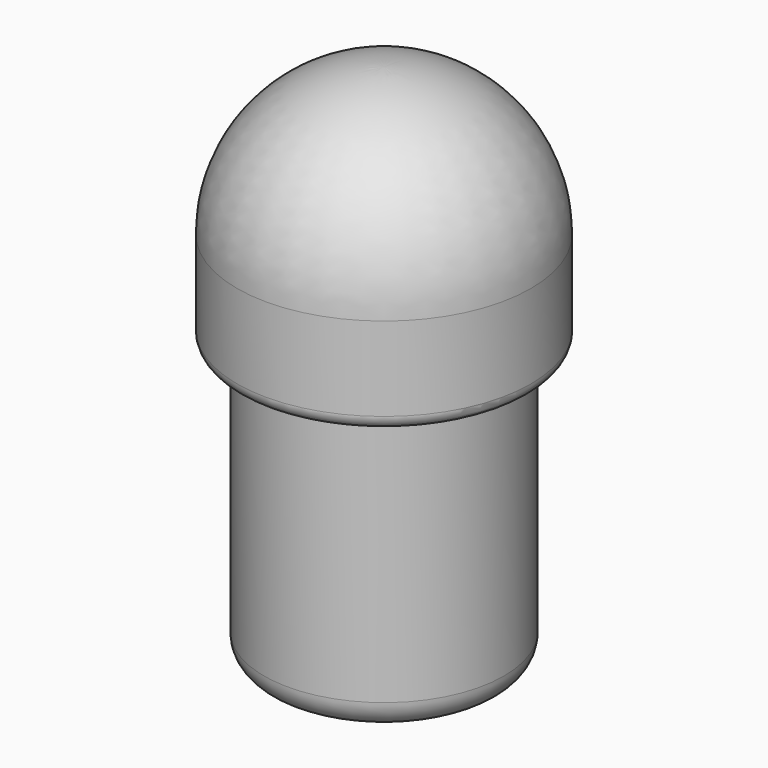
from build123d import *

# Parameters (mm, degrees)
SKETCH_R     = 17.15
PAD_DEPTH    = 40
SKETCH001_R  = 21
PAD001_DEPTH = 14
FILLET_R     = 4
FILLET001_R  = 2


with BuildPart() as part:
    # Sketch → Pad (new body)
    with BuildSketch(Plane.XY):
        Circle(SKETCH_R)
    extrude(amount=PAD_DEPTH)

    # Sketch001 (on Face3 of Pad) → Pad001 (join)
    with BuildSketch(Plane.XY.offset(40)):
        Circle(SKETCH001_R)
    extrude(amount=PAD001_DEPTH)

    # Sketch002 → Revolution (revolve)
    with BuildSketch(Plane.YZ):
        with BuildLine():
            ThreePointArc((21, 54), (14.849242, 68.849242), (0, 75))
            Line((0, 75), (0, 54))
            Line((0, 54), (21, 54))
        make_face()
    revolve(axis=Axis((0, 0, 0), (0, 0, 1)))

    # Fillet
    fillet_edges = [part.edges().sort_by_distance(p)[0] for p in [
        (-17.15, 0, 0),
    ]]
    fillet(fillet_edges, radius=FILLET_R)

    # Fillet001
    fillet001_edges = [part.edges().sort_by_distance(p)[0] for p in [
        (-21, 0, 40),
    ]]
    fillet(fillet001_edges, radius=FILLET001_R)


solid = part.part
